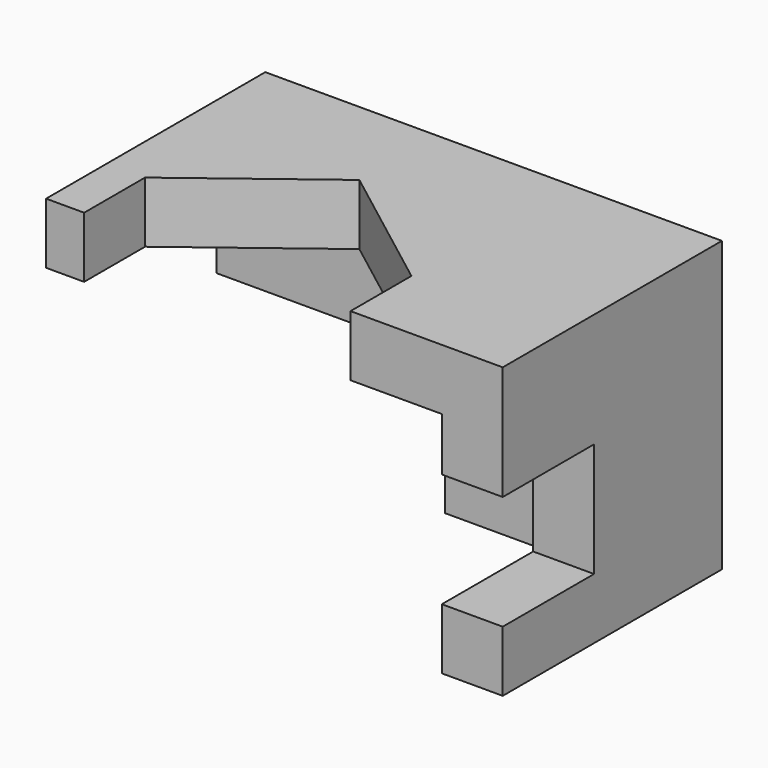
from build123d import *

# Parameters (mm, degrees)
F0_W     = 60
F0_H     = 38
F1_DEPTH = 36
F2_W     = 8
F2_H     = 15
F3_DEPTH = 15
F4_DEPTH = 28
F2_W_2   = 30
F2_H_2   = 18
F5_DEPTH = 36.001
F2_W_3   = 35
F2_H_3   = 8
F6_DEPTH = 10
F8_DEPTH = 8.001


with BuildPart() as f1:
    # F0 (on Front) → F1 (new body)
    with BuildSketch(Plane.XZ):
        Rectangle(F0_W, F0_H)
    extrude(amount=F1_DEPTH)

    # F2 (on face) → F3 (cut)
    with BuildSketch(Plane.XZ.offset(36)):
        with Locations((26, -3.5)):
            Rectangle(F2_W, F2_H)
    extrude(amount=-F3_DEPTH, mode=Mode.SUBTRACT)

    # F2 (on face) → F4 (cut)
    with BuildSketch(Plane.XZ.offset(36)):
        Polygon((0, -19), (22, -19), (22, -11), (22, 4), (22, 11), (10, 11), (-25, 11), (-30, 11), (-30, -1), (0, -1), align=None)
    extrude(amount=-F4_DEPTH, mode=Mode.SUBTRACT)

    # F2 (on face) → F5 (cut, through all)
    with BuildSketch(Plane.XZ.offset(36)):
        with Locations((-15, -10)):
            Rectangle(F2_W_2, F2_H_2)
    extrude(amount=-F5_DEPTH, mode=Mode.SUBTRACT)

    # F2 (on face) → F6 (cut)
    with BuildSketch(Plane.XZ.offset(36)):
        with Locations((-7.5, 15)):
            Rectangle(F2_W_3, F2_H_3)
    extrude(amount=-F6_DEPTH, mode=Mode.SUBTRACT)

    # F7 (on face) → F8 (cut, through all)
    with BuildSketch(Plane(origin=(0, 0, 11), x_dir=(1, 0, 0), z_dir=(0, 0, -1))):
        Polygon((-25, 26), (-7.5, 12.67333), (10, 26), align=None)
    extrude(amount=-F8_DEPTH, mode=Mode.SUBTRACT)


solid = f1.part
